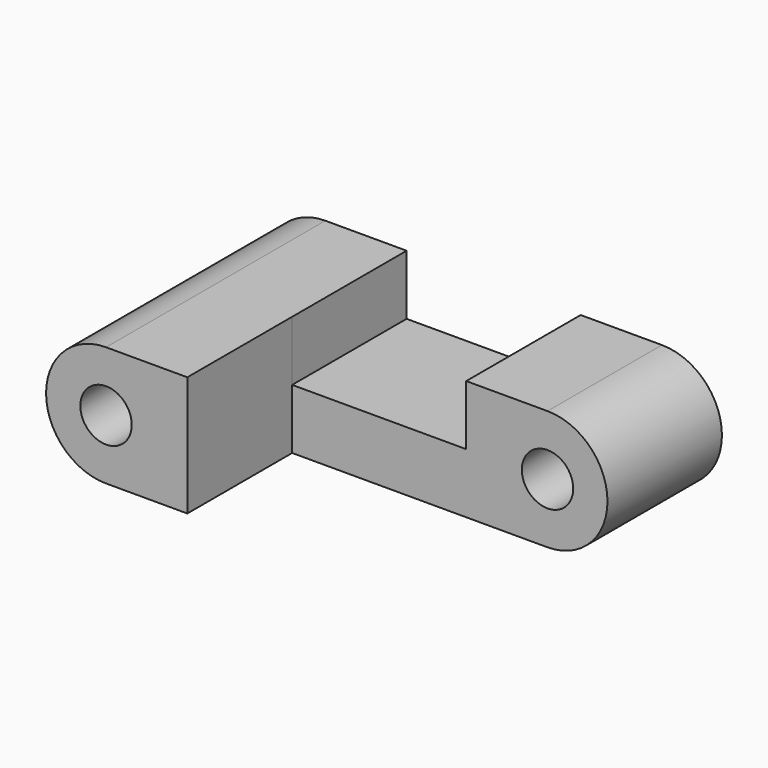
from build123d import *

# Parameters (mm, degrees)
F0_R     = 1.5
F1_DEPTH = 8
F2_W     = 30.229195
F2_H     = 14.570514
F3_DEPTH = 25.4
F4_W     = 10.16
F4_H     = 6.534409
F5_DEPTH = 25.4


with BuildPart() as f1:
    # F0 (on Front) → F1 (new body, symmetric)
    with BuildSketch(Plane.XZ):
        with BuildLine():
            Line((9.825, 3.5), (-9.825, 3.5))
            ThreePointArc((-9.825, 3.5), (-13.325, 0), (-9.825, -3.5))
            Line((-9.825, -3.5), (9.825, -3.5))
            ThreePointArc((9.825, -3.5), (13.325, 0), (9.825, 3.5))
        make_face()
        with Locations((-9.825, 0)):
            Circle(F0_R, mode=Mode.SUBTRACT)
        with Locations((9.825, 0)):
            Circle(F0_R, mode=Mode.SUBTRACT)
    extrude(amount=F1_DEPTH, both=True)

    # F2 (on face) → F3 (cut)
    with BuildSketch(Plane.XY.offset(3.5)):
        with Locations((10.034598, -7.635257)):
            Rectangle(F2_W, F2_H)
    extrude(amount=-F3_DEPTH, mode=Mode.SUBTRACT)

    # F4 (on face) → F5 (cut)
    with BuildSketch(Plane.XZ.offset(0.35)):
        with Locations((0, 3.267205)):
            Rectangle(F4_W, F4_H)
    extrude(amount=-F5_DEPTH, mode=Mode.SUBTRACT)


solid = f1.part
